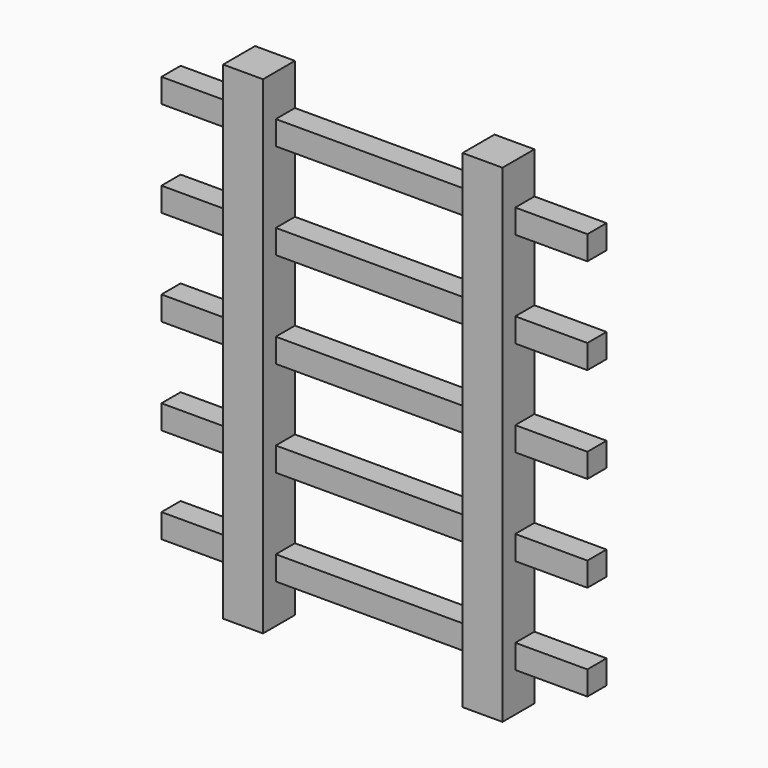
from build123d import *

# Parameters (mm, degrees)
F0_W     = 12.7
F0_H     = 13.215657315
F0_H_2   = 22.86
F0_H_3   = 12.4944613409
F0_H_4   = 7.62
F1_DEPTH = 12.7
F0_W_2   = 23.6822664738
F2_DEPTH = 7.62
F0_W_3   = 63.5
F0_W_4   = 22.954866147


with BuildPart() as f1:
    # F0 (on Front) → F1 (new body)
    with BuildSketch(Plane.XZ):
        with Locations((-41.6535617948, 67.5678286575)):
            Rectangle(F0_W, F0_H)
        with Locations((-41.6535617948, 41.91)):
            Rectangle(F0_W, F0_H_2)
        with Locations((-41.6535617948, 11.43)):
            Rectangle(F0_W, F0_H_2)
        with Locations((-41.6535617948, -19.05)):
            Rectangle(F0_W, F0_H_2)
        with Locations((-41.6535617948, -49.53)):
            Rectangle(F0_W, F0_H_2)
        with Locations((-41.6535617948, -74.8272306705)):
            Rectangle(F0_W, F0_H_3)
        with Locations((-41.6535617948, 57.15)):
            Rectangle(F0_W, F0_H_4)
        Polygon((-35.3035617948, -68.58), (-35.3035617948, -67.4191057513), (-35.3035617948, -60.96), (-48.0035617948, -60.96), (-48.0035617948, -67.4191057513), (-48.0035617948, -68.58), align=None)
        with Locations((-41.6535617948, -34.29)):
            Rectangle(F0_W, F0_H_4)
        with Locations((-41.6535617948, -3.81)):
            Rectangle(F0_W, F0_H_4)
        with Locations((-41.6535617948, 26.67)):
            Rectangle(F0_W, F0_H_4)
    extrude(amount=F1_DEPTH)


with BuildPart() as f1b:
    # F0 (on Front) → F1, piece 2 (new body)
    with BuildSketch(Plane.XZ):
        with Locations((34.5464382052, 67.5678286575)):
            Rectangle(F0_W, F0_H)
        with Locations((34.5464382052, 41.91)):
            Rectangle(F0_W, F0_H_2)
        with Locations((34.5464382052, 11.43)):
            Rectangle(F0_W, F0_H_2)
        with Locations((34.5464382052, -19.05)):
            Rectangle(F0_W, F0_H_2)
        with Locations((34.5464382052, -49.53)):
            Rectangle(F0_W, F0_H_2)
        with Locations((34.5464382052, -74.8272306705)):
            Rectangle(F0_W, F0_H_3)
        with Locations((34.5464382052, 57.15)):
            Rectangle(F0_W, F0_H_4)
        with Locations((34.5464382052, 26.67)):
            Rectangle(F0_W, F0_H_4)
        with Locations((34.5464382052, -3.81)):
            Rectangle(F0_W, F0_H_4)
        with Locations((34.5464382052, -34.29)):
            Rectangle(F0_W, F0_H_4)
        Polygon((40.8964382052, -60.96), (28.1964382052, -60.96), (28.1964382052, -67.4191057513), (28.1964382052, -68.58), (40.8964382052, -68.58), (40.8964382052, -67.4191057513), align=None)
    extrude(amount=F1_DEPTH)


with BuildPart() as f2:
    # F0 (on Front) → F2 (new body)
    with BuildSketch(Plane.XZ):
        with Locations((-59.8446950316, 57.15)):
            Rectangle(F0_W_2, F0_H_4)
    extrude(amount=F2_DEPTH)


with BuildPart() as f2b:
    # F0 (on Front) → F2, piece 2 (new body)
    with BuildSketch(Plane.XZ):
        with Locations((-3.5535617948, 57.15)):
            Rectangle(F0_W_3, F0_H_4)
    extrude(amount=F2_DEPTH)


with BuildPart() as f2c:
    # F0 (on Front) → F2, piece 3 (new body)
    with BuildSketch(Plane.XZ):
        with Locations((-59.8446950316, 26.67)):
            Rectangle(F0_W_2, F0_H_4)
    extrude(amount=F2_DEPTH)


with BuildPart() as f2d:
    # F0 (on Front) → F2, piece 4 (new body)
    with BuildSketch(Plane.XZ):
        with Locations((-3.5535617948, 26.67)):
            Rectangle(F0_W_3, F0_H_4)
    extrude(amount=F2_DEPTH)


with BuildPart() as f2e:
    # F0 (on Front) → F2, piece 5 (new body)
    with BuildSketch(Plane.XZ):
        with Locations((-59.8446950316, -3.81)):
            Rectangle(F0_W_2, F0_H_4)
    extrude(amount=F2_DEPTH)


with BuildPart() as f2f:
    # F0 (on Front) → F2, piece 6 (new body)
    with BuildSketch(Plane.XZ):
        with Locations((-3.5535617948, -3.81)):
            Rectangle(F0_W_3, F0_H_4)
    extrude(amount=F2_DEPTH)


with BuildPart() as f2g:
    # F0 (on Front) → F2, piece 7 (new body)
    with BuildSketch(Plane.XZ):
        with Locations((-59.8446950316, -34.29)):
            Rectangle(F0_W_2, F0_H_4)
    extrude(amount=F2_DEPTH)


with BuildPart() as f2h:
    # F0 (on Front) → F2, piece 8 (new body)
    with BuildSketch(Plane.XZ):
        with Locations((-3.5535617948, -34.29)):
            Rectangle(F0_W_3, F0_H_4)
    extrude(amount=F2_DEPTH)


with BuildPart() as f2i:
    # F0 (on Front) → F2, piece 9 (new body)
    with BuildSketch(Plane.XZ):
        Polygon((-48.0035617948, -67.4191057513), (-48.0035617948, -60.96), (-71.6858282685, -60.96), (-71.6858282685, -68.58), (-48.0035617948, -68.58), align=None)
    extrude(amount=F2_DEPTH)


with BuildPart() as f2j:
    # F0 (on Front) → F2, piece 10 (new body)
    with BuildSketch(Plane.XZ):
        Polygon((-35.3035617948, -60.96), (-35.3035617948, -67.4191057513), (-35.3035617948, -68.58), (28.1964382052, -68.58), (28.1964382052, -67.4191057513), (28.1964382052, -60.96), align=None)
    extrude(amount=F2_DEPTH)


with BuildPart() as f2k:
    # F0 (on Front) → F2, piece 11 (new body)
    with BuildSketch(Plane.XZ):
        Polygon((63.8513043523, -60.96), (40.8964382052, -60.96), (40.8964382052, -67.4191057513), (40.8964382052, -68.58), (63.8513043523, -68.58), align=None)
    extrude(amount=F2_DEPTH)


with BuildPart() as f2l:
    # F0 (on Front) → F2, piece 12 (new body)
    with BuildSketch(Plane.XZ):
        with Locations((52.3738712788, -34.29)):
            Rectangle(F0_W_4, F0_H_4)
    extrude(amount=F2_DEPTH)


with BuildPart() as f2m:
    # F0 (on Front) → F2, piece 13 (new body)
    with BuildSketch(Plane.XZ):
        with Locations((52.3738712788, -3.81)):
            Rectangle(F0_W_4, F0_H_4)
    extrude(amount=F2_DEPTH)


with BuildPart() as f2n:
    # F0 (on Front) → F2, piece 14 (new body)
    with BuildSketch(Plane.XZ):
        with Locations((52.3738712788, 26.67)):
            Rectangle(F0_W_4, F0_H_4)
    extrude(amount=F2_DEPTH)


with BuildPart() as f2o:
    # F0 (on Front) → F2, piece 15 (new body)
    with BuildSketch(Plane.XZ):
        with Locations((52.3738712788, 57.15)):
            Rectangle(F0_W_4, F0_H_4)
    extrude(amount=F2_DEPTH)


solid = Compound([f1.part, f1b.part, f2.part, f2b.part, f2c.part, f2d.part, f2e.part, f2f.part, f2g.part, f2h.part, f2i.part, f2j.part, f2k.part, f2l.part, f2m.part, f2n.part, f2o.part])
